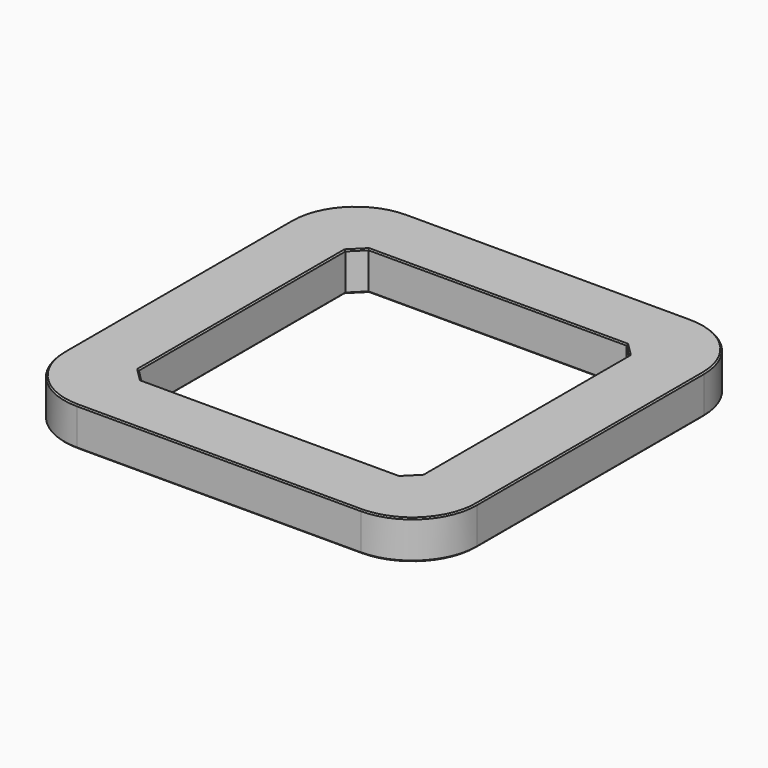
from build123d import *

# Parameters (mm, degrees)
F0_W     = 32
F0_H     = 32
F0_W_2   = 22
F0_H_2   = 22
F1_DEPTH = 3
F2_SIZE2 = 1
F2_SIZE  = 1
F3_R     = 5
F4_SIZE  = 0.1


with BuildPart() as f1:
    # F0 (on Top) → F1 (new body)
    with BuildSketch(Plane.XY):
        Rectangle(F0_W, F0_H)
        Rectangle(F0_W_2, F0_H_2, mode=Mode.SUBTRACT)
    extrude(amount=F1_DEPTH)

    # F2
    f2_edges = [f1.edges().sort_by_distance(p)[0] for p in [
        (-11, 11, 1.5),
        (-11, -11, 1.5),
        (11, 11, 1.5),
        (11, -11, 1.5),
    ]]
    chamfer(f2_edges, length=F2_SIZE, length2=F2_SIZE2)

    # F3
    f3_edges = [f1.edges().sort_by_distance(p)[0] for p in [
        (16, 16, 1.5),
        (16, -16, 1.5),
        (-16, -16, 1.5),
        (-16, 16, 1.5),
    ]]
    fillet(f3_edges, radius=F3_R)

    # F4
    f4_edges = [f1.edges().sort_by_distance(p)[0] for p in [
        (0, 16, 3),
        (14.535534, 14.535534, 3),
        (-14.535534, 14.535534, 3),
        (16, 0, 3),
        (-16, 0, 3),
        (14.535534, -14.535534, 3),
        (-14.535534, -14.535534, 3),
        (0, -16, 3),
        (-11, 0, 3),
        (-10.5, -10.5, 3),
        (-10.5, 10.5, 3),
        (0, -11, 3),
        (0, 11, 3),
        (10.5, -10.5, 3),
        (10.5, 10.5, 3),
        (11, 0, 3),
        (0, 16, 0),
        (14.535534, 14.535534, 0),
        (-14.535534, 14.535534, 0),
        (16, 0, 0),
        (-16, 0, 0),
        (14.535534, -14.535534, 0),
        (-14.535534, -14.535534, 0),
        (0, -16, 0),
        (-11, 0, 0),
        (-10.5, -10.5, 0),
        (-10.5, 10.5, 0),
        (0, -11, 0),
        (0, 11, 0),
        (10.5, -10.5, 0),
        (10.5, 10.5, 0),
        (11, 0, 0),
    ]]
    chamfer(f4_edges, length=F4_SIZE)


solid = f1.part
